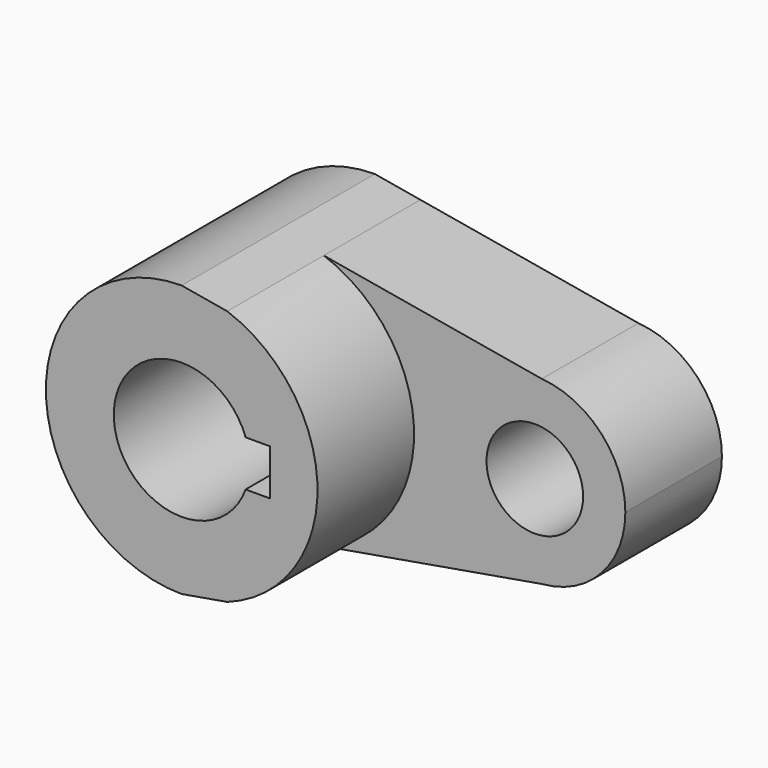
from build123d import *

# Parameters (mm, degrees)
F1_DEPTH = 50.8
F0_R     = 10.16
F2_DEPTH = 25.4


with BuildPart() as f1:
    # F0 (on Front) → F1 (new body)
    with BuildSketch(Plane.XZ):
        with BuildLine():
            Line((9.5889683475, 26.9180666288), (0, 28.575))
            ThreePointArc((0, 28.575), (-28.575, 0), (0, -28.575))
            Line((0, -28.575), (9.5778124487, -26.9220380673))
            ThreePointArc((9.5778124487, -26.9220380673), (28.5749993866, -0.0059208615), (9.5889683475, 26.9180666288))
        make_face()
        with BuildLine():
            ThreePointArc((13.4477648793, -4.826), (-14.2875, 0), (13.4477648793, 4.826))
            Line((13.4477648793, 4.826), (18.5293, 4.826))
            Line((18.5293, 4.826), (18.5293, -4.826))
            Line((18.5293, -4.826), (13.4477648793, -4.826))
        make_face(mode=Mode.SUBTRACT)
    extrude(amount=F1_DEPTH)

    # F0 (on Front) → F2 (join)
    with BuildSketch(Plane.XZ):
        with BuildLine():
            Line((9.5889683475, 26.9180666288), (0, 28.575))
            ThreePointArc((0, 28.575), (-28.575, 0), (0, -28.575))
            Line((0, -28.575), (9.5778124487, -26.9220380673))
            ThreePointArc((9.5778124487, -26.9220380673), (28.5749993866, -0.0059208615), (9.5889683475, 26.9180666288))
        make_face()
        with BuildLine():
            ThreePointArc((13.4477648793, -4.826), (-14.2875, 0), (13.4477648793, 4.826))
            Line((13.4477648793, 4.826), (18.5293, 4.826))
            Line((18.5293, 4.826), (18.5293, -4.826))
            Line((18.5293, -4.826), (13.4477648793, -4.826))
        make_face(mode=Mode.SUBTRACT)
        with BuildLine():
            Line((55.4569746603, 18.9922681928), (9.5889683475, 26.9180666288))
            ThreePointArc((9.5889683475, 26.9180666288), (28.5749993866, -0.0059208615), (9.5778124487, -26.9220380673))
            Line((9.5778124487, -26.9220380673), (55.586857287, -18.9816863341))
            ThreePointArc((55.586857287, -18.9816863341), (34.9251114273, -0.0651564894), (55.4569746603, 18.9922681928))
        make_face()
        with BuildLine():
            ThreePointArc((73.025, 0), (67.9595292606, 12.9358200884), (55.4569746603, 18.9922681928))
            ThreePointArc((55.4569746603, 18.9922681928), (34.9251114273, -0.0651564894), (55.586857287, -18.9816863341))
            ThreePointArc((55.586857287, -18.9816863341), (68.0036916945, -12.8879133044), (73.025, 0))
        make_face()
        with Locations((53.975, 0)):
            Circle(F0_R, mode=Mode.SUBTRACT)
    extrude(amount=F2_DEPTH)


solid = f1.part
